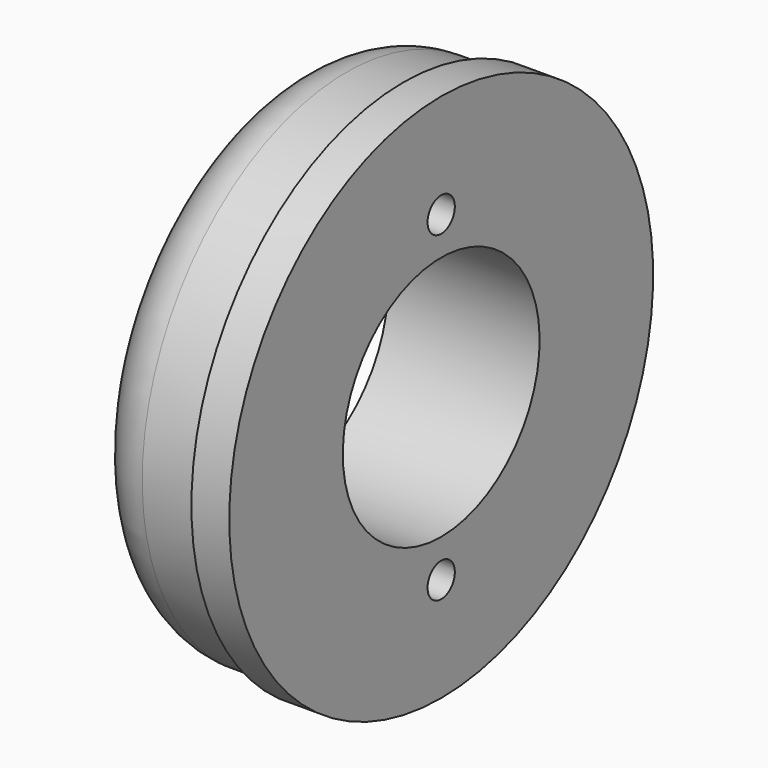
from build123d import *

# Parameters (mm, degrees)
CYLINDER055_R           = 6.5
CYLINDER055_DEPTH       = 10
CYLINDER055_PITCH_ANGLE = 90
CYLINDER108_R           = 0.9
CYLINDER108_DEPTH       = 7
CYLINDER108_PITCH_ANGLE = 90
CYLINDER107_R           = 0.9
CYLINDER107_DEPTH       = 7
CYLINDER107_PITCH_ANGLE = 90
CYLINDER058_R           = 13.5
CYLINDER058_DEPTH       = 6
CYLINDER058_PITCH_ANGLE = 90
CYLINDER011_R           = 14
CYLINDER011_DEPTH       = 2
CYLINDER011_PITCH_ANGLE = 90
FILLET038_R             = 3


with BuildPart() as cylinder055:
    # Cylinder055 → Cylinder055 (new body)
    with BuildSketch(Plane.XY):
        Circle(CYLINDER055_R)
    extrude(amount=CYLINDER055_DEPTH)


with BuildPart() as cylinder055_1:
    # Cylinder055 pitch: moved
    add(cylinder055.part.rotate(Axis((0, 0, 0), (0, 1, 0)), CYLINDER055_PITCH_ANGLE))


with BuildPart() as cylinder055_2:
    # Cylinder055 placement: moved
    add(cylinder055_1.part.moved(Location((-10, 15, 27))))


with BuildPart() as cylinder108:
    # Cylinder108 → Cylinder108 (new body)
    with BuildSketch(Plane.XY):
        Circle(CYLINDER108_R)
    extrude(amount=CYLINDER108_DEPTH)


with BuildPart() as cylinder108_1:
    # Cylinder108 pitch: moved
    add(cylinder108.part.rotate(Axis((0, 0, 0), (0, 1, 0)), CYLINDER108_PITCH_ANGLE))


with BuildPart() as cylinder108_2:
    # Cylinder108 placement: moved
    add(cylinder108_1.part.moved(Location((-7, 15, 35.5))))


with BuildPart() as fusion056:
    # Cylinder107 → Cylinder107 (new body)
    with BuildSketch(Plane.XY):
        Circle(CYLINDER107_R)
    extrude(amount=CYLINDER107_DEPTH)


with BuildPart() as fusion056_1:
    # Cylinder107 pitch: moved
    add(fusion056.part.rotate(Axis((0, 0, 0), (0, 1, 0)), CYLINDER107_PITCH_ANGLE))


with BuildPart() as fusion056_2:
    # Cylinder107 placement: moved
    add(fusion056_1.part.moved(Location((-7, 15, 18.5))))

    # Fusion056: union Cylinder055, Cylinder108
    add(cylinder055_2.part)
    add(cylinder108_2.part)


with BuildPart() as cylinder058:
    # Cylinder058 → Cylinder058 (new body)
    with BuildSketch(Plane.XY):
        Circle(CYLINDER058_R)
    extrude(amount=CYLINDER058_DEPTH)


with BuildPart() as cylinder058_1:
    # Cylinder058 pitch: moved
    add(cylinder058.part.rotate(Axis((0, 0, 0), (0, 1, 0)), CYLINDER058_PITCH_ANGLE))


with BuildPart() as cylinder058_2:
    # Cylinder058 placement: moved
    add(cylinder058_1.part.moved(Location((-8, 15, 27))))


with BuildPart() as clutch_part:
    # Cylinder011 → Cylinder011 (new body)
    with BuildSketch(Plane.XY):
        Circle(CYLINDER011_R)
    extrude(amount=CYLINDER011_DEPTH)


with BuildPart() as clutch_part_1:
    # Cylinder011 pitch: moved
    add(clutch_part.part.rotate(Axis((0, 0, 0), (0, 1, 0)), CYLINDER011_PITCH_ANGLE))


with BuildPart() as clutch_part_2:
    # Cylinder011 placement: moved
    add(clutch_part_1.part.moved(Location((-2, 15, 27))))

    # Fusion029: union Cylinder058
    add(cylinder058_2.part)

    # Cut047: cut Fusion056
    add(fusion056_2.part, mode=Mode.SUBTRACT)

    # Fillet038
    fillet038_edges = [clutch_part_2.edges().sort_by_distance(p)[0] for p in [
        (-8, 15, 40.5),
    ]]
    fillet(fillet038_edges, radius=FILLET038_R)


solid = clutch_part_2.part
